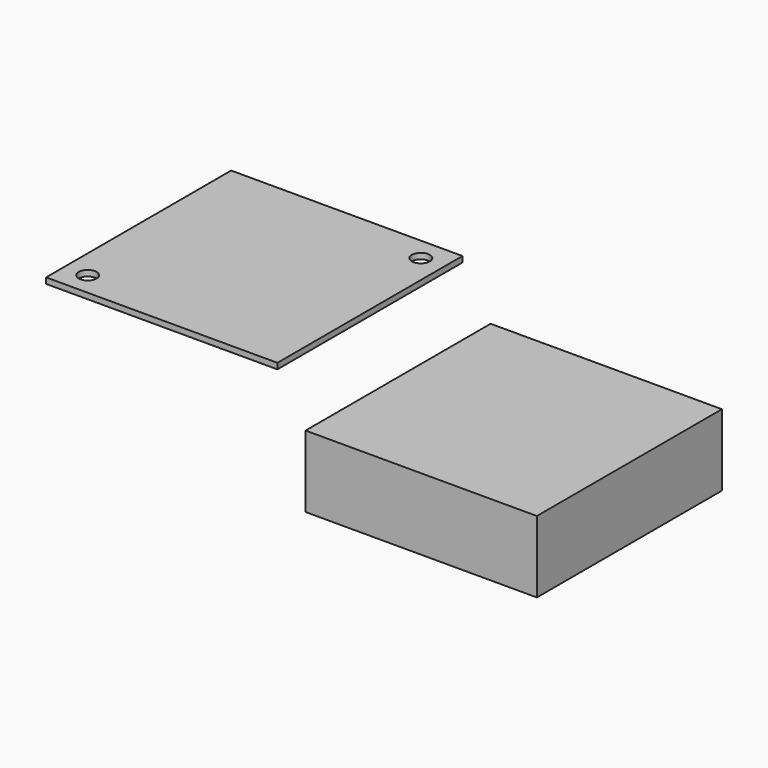
from build123d import *

# Parameters (mm, degrees)
F0_W     = 40
F0_H     = 40
F0_W_2   = 6
F0_H_2   = 6
F2_DEPTH = 12
F3_DEPTH = 1
F1_R     = 1
F4_DEPTH = 2
F5_R     = 1.25
F6_DEPTH = 25
F7_DEPTH = 0.4
F8_W     = 40
F8_H     = 40
F8_R     = 1.55
F9_DEPTH = 1


with BuildPart() as f2:
    # F0 (on Top) → F2 (new body)
    with BuildSketch(Plane.XY):
        with Locations((20, 20)):
            Rectangle(F0_W, F0_H)
        Polygon((33, 1), (1, 1), (1, 33), (1, 39), (7, 39), (39, 39), (39, 7), (39, 1), align=None, mode=Mode.SUBTRACT)
        with Locations((36, 4)):
            Rectangle(F0_W_2, F0_H_2)
        with Locations((4, 36)):
            Rectangle(F0_W_2, F0_H_2)
    extrude(amount=-F2_DEPTH)

    # F0 (on Top) → F3 (join)
    with BuildSketch(Plane.XY):
        Polygon((1, 33), (1, 1), (33, 1), (33, 7), (39, 7), (39, 39), (7, 39), (7, 33), align=None)
    extrude(amount=-F3_DEPTH)

    # F1 (on Top) → F4 (cut)
    with BuildSketch(Plane.XY):
        with Locations((8, 16.5)):
            Circle(F1_R)
        with Locations((13, 16.5)):
            Circle(F1_R)
        with Locations((8, 4.5)):
            Circle(F1_R)
        with Locations((13, 4.5)):
            Circle(F1_R)
        with Locations((8, 35.5)):
            Circle(F1_R)
        with Locations((13, 35.5)):
            Circle(F1_R)
        with Locations((8, 23.5)):
            Circle(F1_R)
        with Locations((13, 23.5)):
            Circle(F1_R)
        with Locations((27, 35.5)):
            Circle(F1_R)
        with Locations((32, 35.5)):
            Circle(F1_R)
        with Locations((27, 23.5)):
            Circle(F1_R)
        with Locations((32, 23.5)):
            Circle(F1_R)
        with Locations((27, 16.5)):
            Circle(F1_R)
        with Locations((32, 16.5)):
            Circle(F1_R)
        with Locations((27, 4.5)):
            Circle(F1_R)
        with Locations((32, 4.5)):
            Circle(F1_R)
    extrude(amount=-F4_DEPTH, mode=Mode.SUBTRACT)

    # F5 (on face) → F6 (cut)
    with BuildSketch(Plane.XY):
        with Locations((36, 4)):
            Circle(F5_R)
        with Locations((4, 36)):
            Circle(F5_R)
    extrude(amount=-F6_DEPTH, mode=Mode.SUBTRACT)

    # F0 (on Top) → F7 (join)
    with BuildSketch(Plane.XY):
        with Locations((20, 20)):
            Rectangle(F0_W, F0_H)
        Polygon((33, 1), (1, 1), (1, 33), (1, 39), (7, 39), (39, 39), (39, 7), (39, 1), align=None, mode=Mode.SUBTRACT)
        Polygon((1, 33), (1, 1), (33, 1), (33, 7), (39, 7), (39, 39), (7, 39), (7, 33), align=None)
        with Locations((36, 4)):
            Rectangle(F0_W_2, F0_H_2)
        with Locations((4, 36)):
            Rectangle(F0_W_2, F0_H_2)
    extrude(amount=F7_DEPTH)


with BuildPart() as f9:
    # F8 (on Top) → F9 (new body)
    with BuildSketch(Plane.XY):
        with Locations((-35.826643, 33.696713)):
            Rectangle(F8_W, F8_H)
        with Locations((-51.826643, 17.696713)):
            Circle(F8_R, mode=Mode.SUBTRACT)
        with Locations((-19.826643, 49.696713)):
            Circle(F8_R, mode=Mode.SUBTRACT)
    extrude(amount=-F9_DEPTH)


solid = Compound([f2.part, f9.part])
